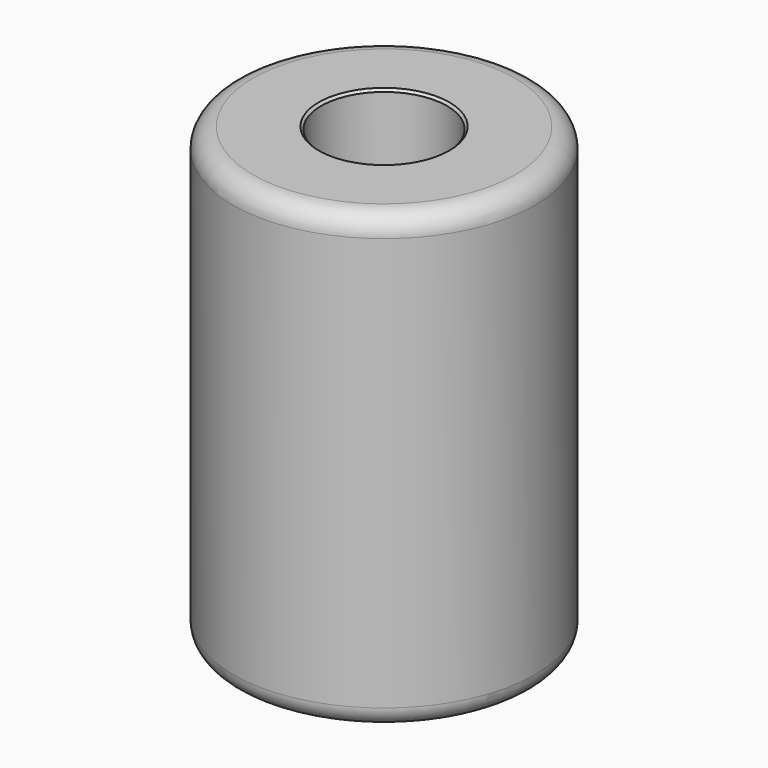
from build123d import *

# Parameters (mm, degrees)
F0_R     = 19.05
F1_DEPTH = 57.15
F2_R     = 7.9375
F3_DEPTH = 44.45
F4_R     = 2.54
F5_SIZE  = 0.3


with BuildPart() as f1:
    # F0 (on Top) → F1 (new body)
    with BuildSketch(Plane.XY):
        Circle(F0_R)
    extrude(amount=F1_DEPTH)

    # F2 (on face) → F3 (cut)
    with BuildSketch(Plane.XY.offset(57.15)):
        Circle(F2_R)
    extrude(amount=-F3_DEPTH, mode=Mode.SUBTRACT)

    # F4
    f4_edges = [f1.edges().sort_by_distance(p)[0] for p in [
        (-19.05, 0, 0),
        (-19.05, 0, 57.15),
    ]]
    fillet(f4_edges, radius=F4_R)

    # F5
    f5_edges = [f1.edges().sort_by_distance(p)[0] for p in [
        (-7.9375, 0, 57.15),
        (-7.9375, 0, 12.7),
    ]]
    chamfer(f5_edges, length=F5_SIZE)


solid = f1.part
